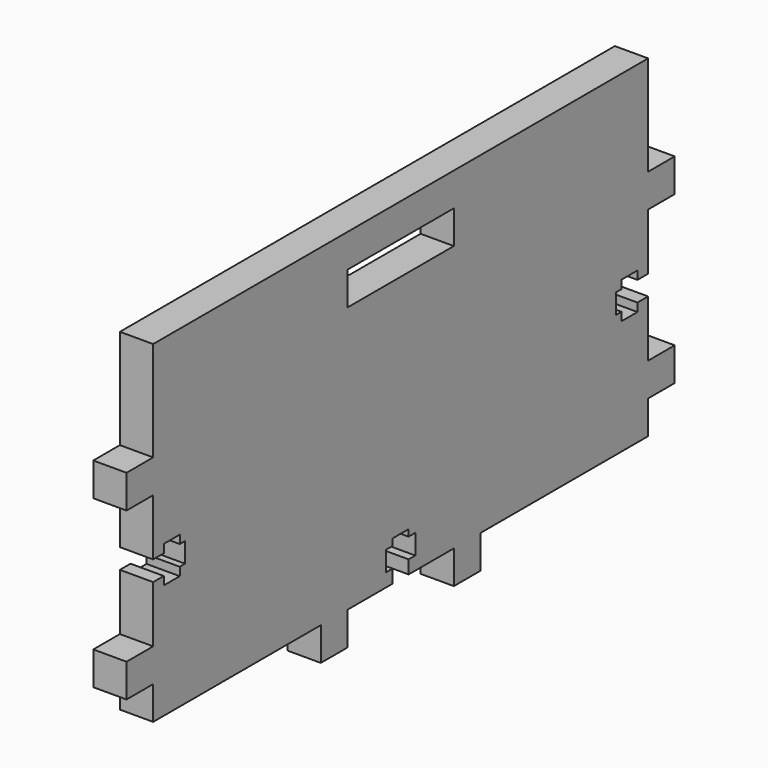
from build123d import *

# Parameters (mm, degrees)
F2_DEPTH = 5


with BuildPart() as f2:
    # F1 (on Right) → F2 (new body)
    with BuildSketch(Plane.YZ):
        Polygon((0, 5), (0, 0), (31.5, 0), (31.5, -5), (36.5, -5), (36.5, 0), (45, 0), (45, 2), (43.75, 2), (43.75, 5), (45, 5), (45, 6), (48, 6), (48, 5), (49.25, 5), (49.25, 2), (48, 2), (48, 0), (56.5, 0), (56.5, -5), (61.5, -5), (61.5000001655, 0), (93, 0), (93, 5), (98, 5), (98, 10), (93, 10), (93, 18.5), (91, 18.5), (91, 17.25), (88, 17.25), (88, 18.5), (87, 18.5), (87, 21.5), (88, 21.5), (88, 22.75), (91, 22.75), (91, 21.5), (93, 21.5), (93, 30), (98, 30), (98, 35), (93, 35), (93, 40), (93, 50), (0, 50), (0, 40), (0, 35), (-5, 35), (-5, 30), (0, 30), (0, 21.5), (2, 21.5), (2, 22.75), (5, 22.75), (5, 21.5), (6, 21.5), (6, 18.5), (5, 18.5), (5, 17.25), (2, 17.25), (2, 18.5), (0, 18.5), (0, 10), (-5, 10), (-5, 5), align=None)
        Polygon((36.5, 45), (56.5, 45), (56.5, 40), (45, 40), (36.5, 40), align=None, mode=Mode.SUBTRACT)
    extrude(amount=F2_DEPTH)


solid = f2.part
